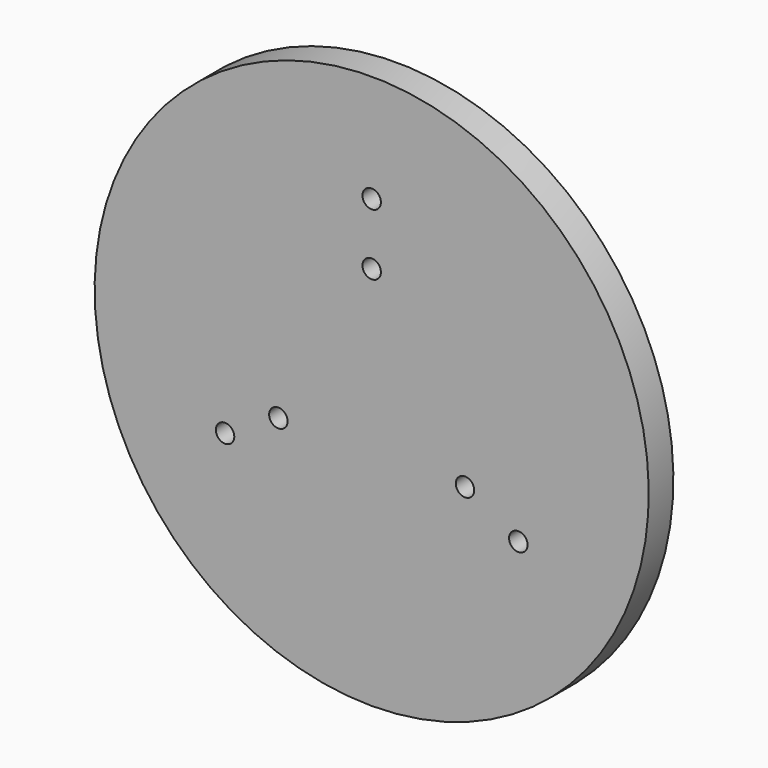
from build123d import *

# Parameters (mm, degrees)
F0_W     = 180
F0_H     = 180
F1_DEPTH = 10
F2_R     = 3
F3_DEPTH = 10.001
F5_DEPTH = 10.001


with BuildPart() as f1:
    # F0 (on Front) → F1 (new body)
    with BuildSketch(Plane.XZ):
        Rectangle(F0_W, F0_H)
    extrude(amount=-F1_DEPTH)

    # F2 (on face) → F3 (cut, through all)
    with BuildSketch(Plane.XZ):
        with Locations((0, 55)):
            Circle(F2_R)
        with Locations((0, 35)):
            Circle(F2_R)
        with Locations((-30.3108891325, -17.5)):
            Circle(F2_R)
        with Locations((-47.6313972081, -27.5)):
            Circle(F2_R)
        with Locations((30.3108891325, -17.5)):
            Circle(F2_R)
        with Locations((47.6313972081, -27.5)):
            Circle(F2_R)
    extrude(amount=-F3_DEPTH, mode=Mode.SUBTRACT)

    # F4 (on face) → F5 (cut, through all)
    with BuildSketch(Plane.XZ):
        with BuildLine():
            ThreePointArc((-90, 2.079e-07), (-63.6396103357, 63.6396102779), (-2.896e-07, 90))
            Line((-2.896e-07, 90), (-90, 90))
            Line((-90, 90), (-90, 2.079e-07))
        make_face()
        with BuildLine():
            ThreePointArc((-2.896e-07, 90), (63.6396102044, 63.6396104092), (90, 0))
            Line((90, 0), (90, 90))
            Line((90, 90), (-2.896e-07, 90))
        make_face()
        with BuildLine():
            Line((90, -90), (90, 0))
            ThreePointArc((90, 0), (63.6396104617, -63.6396101519), (4.381e-07, -90))
            Line((4.381e-07, -90), (90, -90))
        make_face()
        with BuildLine():
            Line((-90, -90), (4.381e-07, -90))
            ThreePointArc((4.381e-07, -90), (-63.6396102254, -63.6396103882), (-90, 2.079e-07))
            Line((-90, 2.079e-07), (-90, -90))
        make_face()
    extrude(amount=-F5_DEPTH, mode=Mode.SUBTRACT)


solid = f1.part
